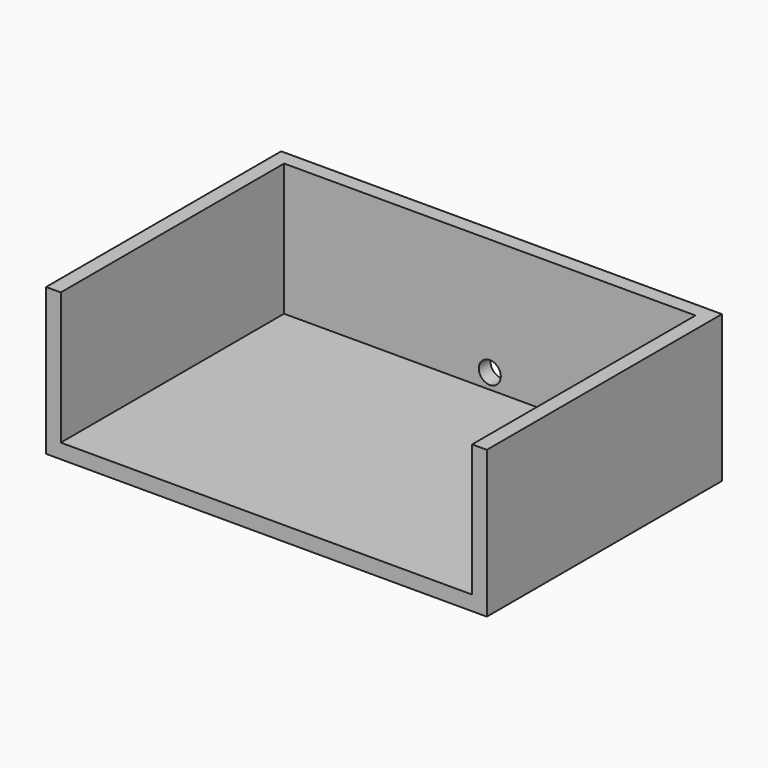
from build123d import *

# Parameters (mm, degrees)
F0_W     = 76.2
F0_H     = 50.8
F1_DEPTH = 25.4
F2_T     = -2.54
F4_D     = 3.81


with BuildPart() as f1:
    # F0 (on Top) → F1 (new body)
    with BuildSketch(Plane.XY):
        Rectangle(F0_W, F0_H)
    extrude(amount=F1_DEPTH)

    # F2
    f2_openings = [f1.faces().sort_by_distance(p)[0] for p in [
        (0, 0, 25.4),
        (0, -25.4, 12.7),
    ]]
    offset(amount=F2_T, openings=f2_openings)

    # F4 (through all)
    with Locations(Plane(origin=(0, 25.4, 0), x_dir=(-1, 0, 0), z_dir=(0, 1, 0))):
        with Locations((0, 5.159016)):
            Hole(F4_D / 2)


solid = f1.part
